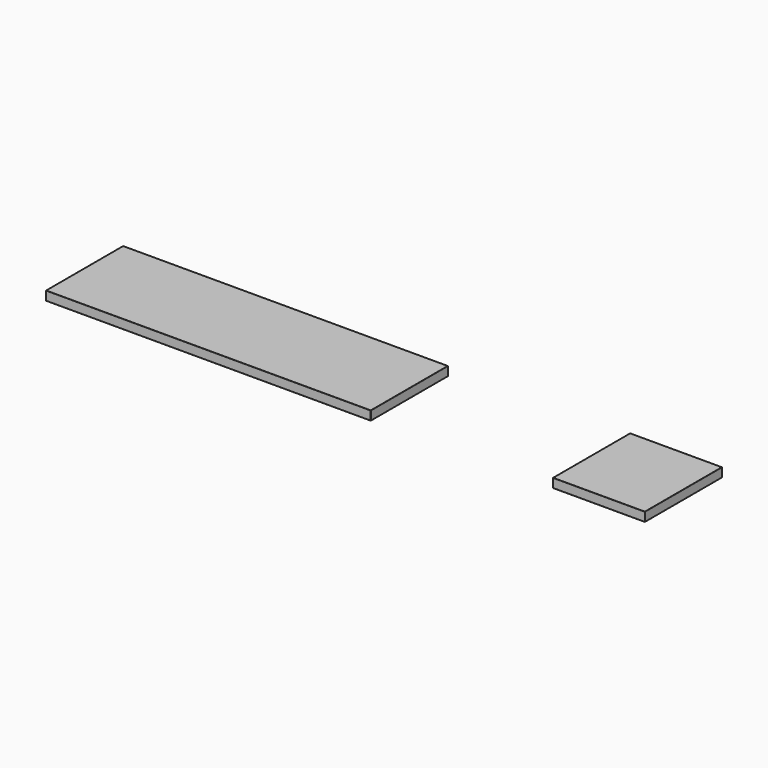
from build123d import *

# Parameters (mm, degrees)
F1_START = -206.375
F0_W     = 1358.1562537551
F0_H     = 38.1
F1_DEPTH = 403.225
F0_W_2   = 384.1790530003
F2_R     = 0.762
F2_2_R   = 0.762


with BuildPart() as f1:
    # F0 (on Front) → F1 (new body)
    with BuildSketch(Plane.XZ.offset(F1_START)):
        with Locations((-1825.2571798778, 1543.05)):
            Rectangle(F0_W, F0_H)
    extrude(amount=-F1_DEPTH)

    # F2
    f2_edges = [f1.edges().sort_by_distance(p)[0] for p in [
        (-1146.179053, 407.9875, 1562.1),
        (-1825.25718, 206.375, 1562.1),
        (-1146.179053, 206.375, 1543.05),
        (-1146.179053, 407.9875, 1524),
        (-1825.25718, 206.375, 1524),
        (-1146.179053, 609.6, 1543.05),
        (-2504.335307, 407.9875, 1562.1),
        (-2504.335307, 206.375, 1543.05),
        (-1825.25718, 609.6, 1562.1),
        (-2504.335307, 407.9875, 1524),
        (-1825.25718, 609.6, 1524),
        (-2504.335307, 609.6, 1543.05),
    ]]
    fillet(f2_edges, radius=F2_R)


with BuildPart() as f1b:
    # F0 (on Front) → F1, piece 2 (new body)
    with BuildSketch(Plane.XZ.offset(F1_START)):
        with Locations((-192.0895265001, 1543.05)):
            Rectangle(F0_W_2, F0_H)
    extrude(amount=-F1_DEPTH)

    # F2#2
    f2_2_edges = [f1b.edges().sort_by_distance(p)[0] for p in [
        (-192.089527, 609.6, 1562.1),
        (-384.179053, 407.9875, 1562.1),
        (-192.089527, 206.375, 1562.1),
        (-384.179053, 206.375, 1543.05),
        (-192.089527, 206.375, 1524),
        (0, 609.6, 1543.05),
        (0, 407.9875, 1524),
        (0, 206.375, 1543.05),
        (0, 407.9875, 1562.1),
        (-384.179053, 609.6, 1543.05),
        (-192.089527, 609.6, 1524),
    ]]
    fillet(f2_2_edges, radius=F2_2_R)


solid = Compound([f1.part, f1b.part])
